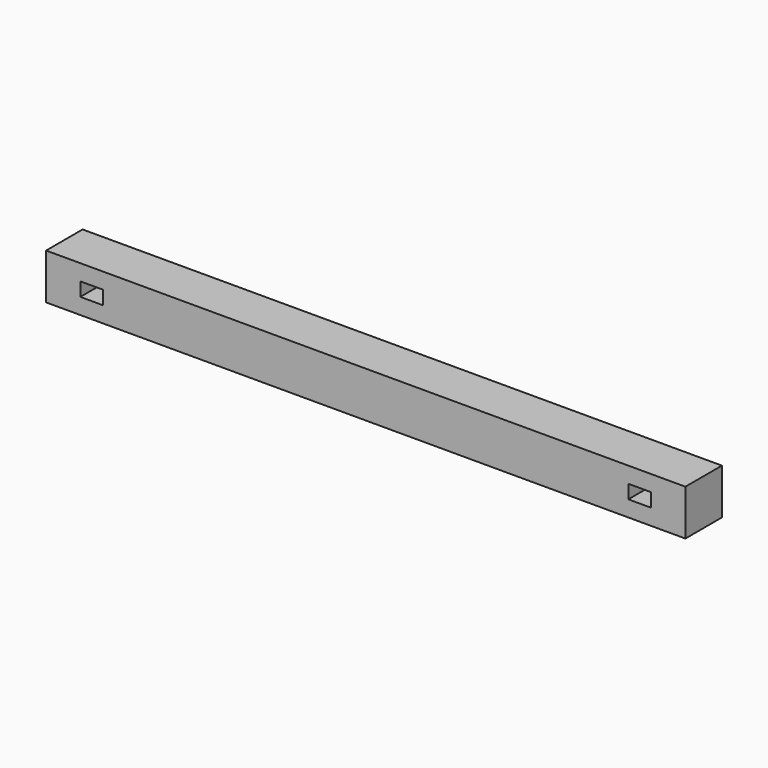
from build123d import *

# Parameters (mm, degrees)
F0_W     = 711.2
F0_H     = 50.8
F1_DEPTH = 50.8
F3_DEPTH = 50.8
F5_DEPTH = 50.8


with BuildPart() as f1:
    # F0 (on Top) → F1 (new body)
    with BuildSketch(Plane.XY):
        Rectangle(F0_W, F0_H)
    extrude(amount=F1_DEPTH)

    # F2 (on face) → F3 (cut)
    with BuildSketch(Plane.XZ.offset(25.4)):
        Polygon((-292.1, 33.02), (-317.5, 33.02), (-317.5, 25.4), (-317.5, 17.78), (-292.1, 17.78), align=None)
    extrude(amount=-F3_DEPTH, mode=Mode.SUBTRACT)

    # F4 (on face) → F5 (cut)
    with BuildSketch(Plane.XZ.offset(25.4)):
        Polygon((317.5, 25.4), (317.5, 33.02), (292.1, 33.02), (292.1, 17.78), (317.5, 17.78), align=None)
    extrude(amount=-F5_DEPTH, mode=Mode.SUBTRACT)


solid = f1.part
